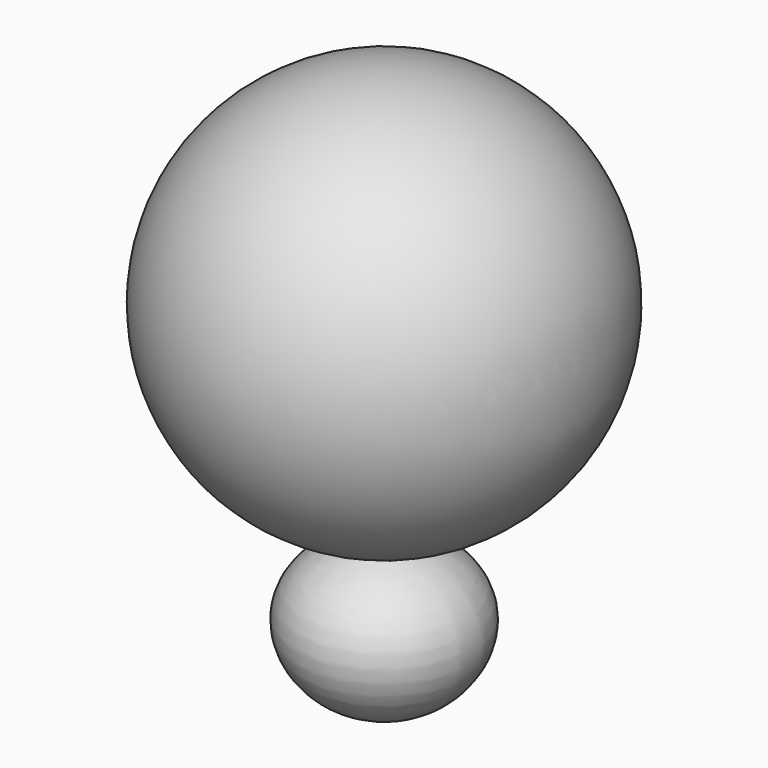
from build123d import *


with BuildPart() as f2:
    # F0 (on Top) → F2 (revolve)
    with BuildSketch(Plane.XY):
        with BuildLine():
            ThreePointArc((0, 40.154381), (40.154381, 0), (0, -40.154381))
            Line((0, -40.154381), (0, -41.9608))
            ThreePointArc((0, -41.9608), (41.9608, 0), (0, 41.9608))
            Line((0, 41.9608), (0, 40.154381))
        make_face()
    revolve(axis=Axis((0, 0, 0), (0, -1, 0)))


with BuildPart() as f3:
    # F1 (on Front) → F3 (revolve)
    with BuildSketch(Plane.XZ):
        with BuildLine():
            add(Edge.make_bspline(
                [(0, -41.949577), (29.636109, -47.529605), (19.291429, -74.649441), (0, -74.187795)],
                knots=[0, 0, 0, 0, 32.238218, 32.238218, 32.238218, 32.238218], degree=3))
            Line((0, -41.949577), (0, -74.187795))
        make_face()
    revolve(axis=Axis((0, 0, -58.068686), (0, 0, -1)))


solid = Compound([f2.part, f3.part])
